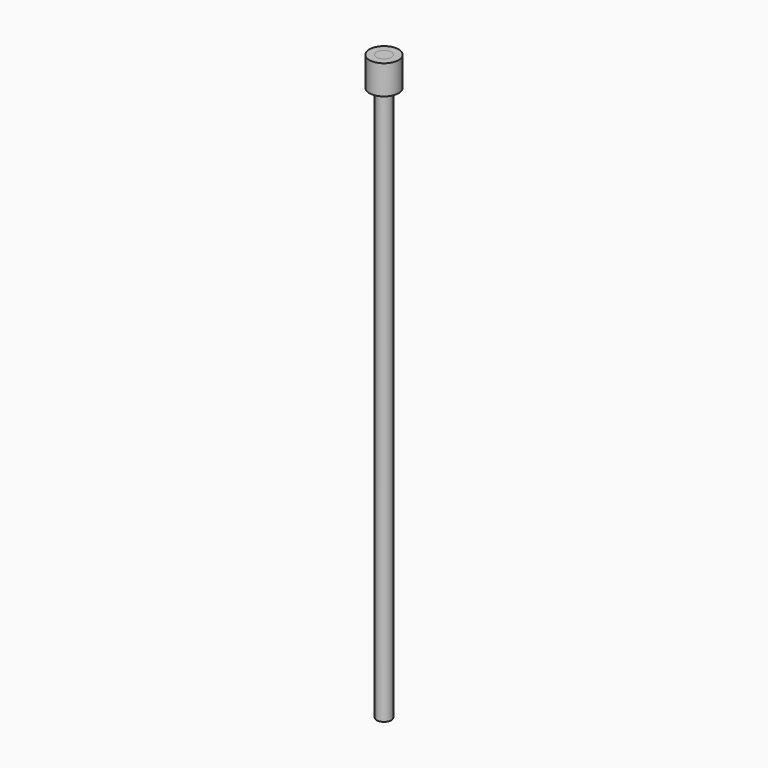
from build123d import *

# Parameters (mm, degrees)
F1_R     = 5
F2_DEPTH = 10
F0_R     = 2.5
F3_DEPTH = 200


with BuildPart() as f2:
    # F1 (on Top) → F2 (new body)
    with BuildSketch(Plane.XY):
        Circle(F1_R)
    extrude(amount=-F2_DEPTH)


with BuildPart() as f3:
    # F0 (on Top) → F3 (new body)
    with BuildSketch(Plane.XY):
        Circle(F0_R)
    extrude(amount=-F3_DEPTH)


solid = Compound([f2.part, f3.part])
